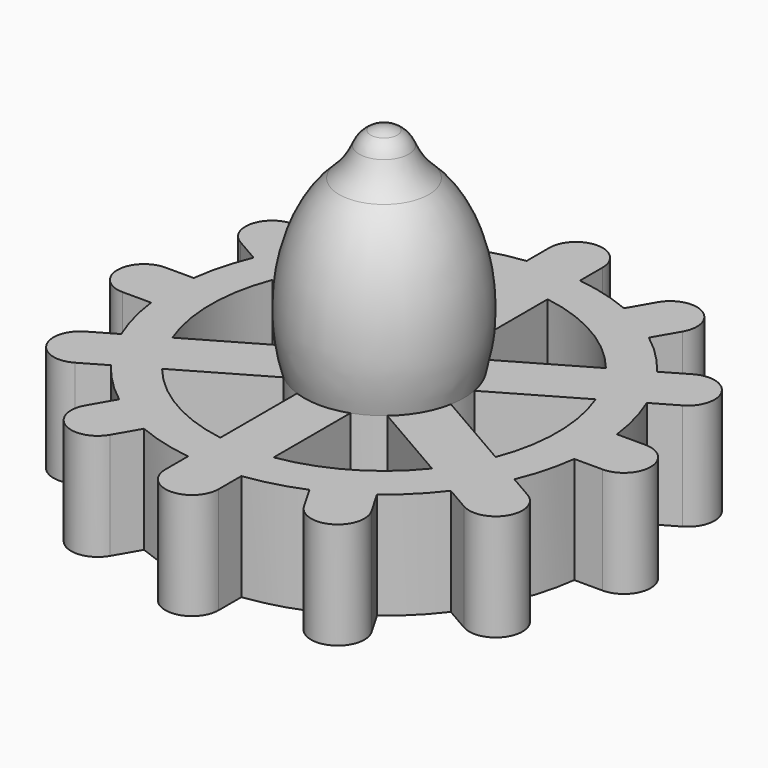
from build123d import *

# Parameters (mm, degrees)
F1_DEPTH = 1.27
F2_DEPTH = 3.81


with BuildPart() as f1:
    # F0 (on Top) → F1 (new body)
    with BuildSketch(Plane.XY):
        with BuildLine():
            Line((-1.27, 11.43), (-1.27, 10.0803124952))
            ThreePointArc((-1.27, 10.0803124952), (-2.6296014982, 9.8138063951), (-3.9403039848, 9.3648066989))
            Line((-3.9403039848, 9.3648066989), (-4.6151477372, 10.5336703653))
            ThreePointArc((-4.6151477372, 10.5336703653), (-6.35, 10.9985226281), (-6.8148522628, 9.2636703653))
            Line((-6.8148522628, 9.2636703653), (-6.1400085104, 8.0948066989))
            ThreePointArc((-6.1400085104, 8.0948066989), (-7.1842048969, 7.1842048969), (-8.0948066989, 6.1400085104))
            Line((-8.0948066989, 6.1400085104), (-9.2636703653, 6.8148522628))
            ThreePointArc((-9.2636703653, 6.8148522628), (-10.9985226281, 6.35), (-10.5336703653, 4.6151477372))
            Line((-10.5336703653, 4.6151477372), (-9.3648066989, 3.9403039848))
            ThreePointArc((-9.3648066989, 3.9403039848), (-9.8138063951, 2.6296014982), (-10.0803124952, 1.27))
            Line((-10.0803124952, 1.27), (-11.43, 1.27))
            ThreePointArc((-11.43, 1.27), (-12.7, 0), (-11.43, -1.27))
            Line((-11.43, -1.27), (-10.0803124952, -1.27))
            ThreePointArc((-10.0803124952, -1.27), (-9.8138063951, -2.6296014982), (-9.3648066989, -3.9403039848))
            Line((-9.3648066989, -3.9403039848), (-10.5336703653, -4.6151477372))
            ThreePointArc((-10.5336703653, -4.6151477372), (-10.9985226281, -6.35), (-9.2636703653, -6.8148522628))
            Line((-9.2636703653, -6.8148522628), (-8.0948066989, -6.1400085104))
            ThreePointArc((-8.0948066989, -6.1400085104), (-7.1842048969, -7.1842048969), (-6.1400085104, -8.0948066989))
            Line((-6.1400085104, -8.0948066989), (-6.8148522628, -9.2636703653))
            ThreePointArc((-6.8148522628, -9.2636703653), (-6.35, -10.9985226281), (-4.6151477372, -10.5336703653))
            Line((-4.6151477372, -10.5336703653), (-3.9403039848, -9.3648066989))
            ThreePointArc((-3.9403039848, -9.3648066989), (-2.6296014982, -9.8138063951), (-1.27, -10.0803124952))
            Line((-1.27, -10.0803124952), (-1.27, -11.43))
            ThreePointArc((-1.27, -11.43), (0, -12.7), (1.27, -11.43))
            Line((1.27, -11.43), (1.27, -10.0803124952))
            ThreePointArc((1.27, -10.0803124952), (2.6296014982, -9.8138063951), (3.9403039848, -9.3648066989))
            Line((3.9403039848, -9.3648066989), (4.6151477372, -10.5336703653))
            ThreePointArc((4.6151477372, -10.5336703653), (6.35, -10.9985226281), (6.8148522628, -9.2636703653))
            Line((6.8148522628, -9.2636703653), (6.1400085104, -8.0948066989))
            ThreePointArc((6.1400085104, -8.0948066989), (7.1842048969, -7.1842048969), (8.0948066989, -6.1400085104))
            Line((8.0948066989, -6.1400085104), (9.2636703653, -6.8148522628))
            ThreePointArc((9.2636703653, -6.8148522628), (10.9985226281, -6.35), (10.5336703653, -4.6151477372))
            Line((10.5336703653, -4.6151477372), (9.3648066989, -3.9403039848))
            ThreePointArc((9.3648066989, -3.9403039848), (9.8138063951, -2.6296014982), (10.0803124952, -1.27))
            Line((10.0803124952, -1.27), (11.43, -1.27))
            ThreePointArc((11.43, -1.27), (12.7, 0), (11.43, 1.27))
            Line((11.43, 1.27), (10.0803124952, 1.27))
            ThreePointArc((10.0803124952, 1.27), (9.8138063951, 2.6296014982), (9.3648066989, 3.9403039848))
            Line((9.3648066989, 3.9403039848), (10.5336703653, 4.6151477372))
            ThreePointArc((10.5336703653, 4.6151477372), (10.9985226281, 6.35), (9.2636703653, 6.8148522628))
            Line((9.2636703653, 6.8148522628), (8.0948066989, 6.1400085104))
            ThreePointArc((8.0948066989, 6.1400085104), (7.1842048969, 7.1842048969), (6.1400085104, 8.0948066989))
            Line((6.1400085104, 8.0948066989), (6.8148522628, 9.2636703653))
            ThreePointArc((6.8148522628, 9.2636703653), (6.35, 10.9985226281), (4.6151477372, 10.5336703653))
            Line((4.6151477372, 10.5336703653), (3.9403039848, 9.3648066989))
            ThreePointArc((3.9403039848, 9.3648066989), (2.6296014982, 9.8138063951), (1.27, 10.0803124952))
            Line((1.27, 10.0803124952), (1.27, 11.43))
            ThreePointArc((1.27, 11.43), (0, 12.7), (-1.27, 11.43))
        make_face()
        with BuildLine():
            ThreePointArc((-1.27, -8.1567226875), (-4.1275, -7.1490397082), (-6.428929059, -5.1782136065))
            Line((-6.428929059, -5.1782136065), (-2.4758519733, -2.895903487))
            ThreePointArc((-2.4758519733, -2.895903487), (-1.905, -3.2995567884), (-1.27, -3.5921024484))
            Line((-1.27, -3.5921024484), (-1.27, -8.1567226875))
        make_face(mode=Mode.SUBTRACT)
        with BuildLine():
            ThreePointArc((6.428929059, -5.1782136065), (4.1275, -7.1490397082), (1.27, -8.1567226875))
            Line((1.27, -8.1567226875), (1.27, -3.5921024484))
            ThreePointArc((1.27, -3.5921024484), (1.905, -3.2995567884), (2.4758519733, -2.895903487))
            Line((2.4758519733, -2.895903487), (6.428929059, -5.1782136065))
        make_face(mode=Mode.SUBTRACT)
        with BuildLine():
            ThreePointArc((7.698929059, 2.9785090809), (8.255, 0), (7.698929059, -2.9785090809))
            Line((7.698929059, -2.9785090809), (3.7458519733, -0.6961989614))
            ThreePointArc((3.7458519733, -0.6961989614), (3.81, 0), (3.7458519733, 0.6961989614))
            Line((3.7458519733, 0.6961989614), (7.698929059, 2.9785090809))
        make_face(mode=Mode.SUBTRACT)
        with BuildLine():
            Line((-7.698929059, 2.9785090809), (-3.7458519733, 0.6961989614))
            ThreePointArc((-3.7458519733, 0.6961989614), (-3.81, 0), (-3.7458519733, -0.6961989614))
            Line((-3.7458519733, -0.6961989614), (-7.698929059, -2.9785090809))
            ThreePointArc((-7.698929059, -2.9785090809), (-8.255, 0), (-7.698929059, 2.9785090809))
        make_face(mode=Mode.SUBTRACT)
        with BuildLine():
            ThreePointArc((-6.428929059, 5.1782136065), (-4.1275, 7.1490397082), (-1.27, 8.1567226875))
            Line((-1.27, 8.1567226875), (-1.27, 3.5921024484))
            ThreePointArc((-1.27, 3.5921024484), (-1.905, 3.2995567884), (-2.4758519733, 2.895903487))
            Line((-2.4758519733, 2.895903487), (-6.428929059, 5.1782136065))
        make_face(mode=Mode.SUBTRACT)
        with BuildLine():
            Line((1.27, 3.5921024484), (1.27, 8.1567226875))
            ThreePointArc((1.27, 8.1567226875), (4.1275, 7.1490397082), (6.428929059, 5.1782136065))
            Line((6.428929059, 5.1782136065), (2.4758519733, 2.895903487))
            ThreePointArc((2.4758519733, 2.895903487), (1.905, 3.2995567884), (1.27, 3.5921024484))
        make_face(mode=Mode.SUBTRACT)
    extrude(amount=-F1_DEPTH)

    # F0 (on Top) → F2 (join)
    with BuildSketch(Plane.XY):
        with BuildLine():
            Line((-1.27, 11.43), (-1.27, 10.0803124952))
            ThreePointArc((-1.27, 10.0803124952), (-2.6296014982, 9.8138063951), (-3.9403039848, 9.3648066989))
            Line((-3.9403039848, 9.3648066989), (-4.6151477372, 10.5336703653))
            ThreePointArc((-4.6151477372, 10.5336703653), (-6.35, 10.9985226281), (-6.8148522628, 9.2636703653))
            Line((-6.8148522628, 9.2636703653), (-6.1400085104, 8.0948066989))
            ThreePointArc((-6.1400085104, 8.0948066989), (-7.1842048969, 7.1842048969), (-8.0948066989, 6.1400085104))
            Line((-8.0948066989, 6.1400085104), (-9.2636703653, 6.8148522628))
            ThreePointArc((-9.2636703653, 6.8148522628), (-10.9985226281, 6.35), (-10.5336703653, 4.6151477372))
            Line((-10.5336703653, 4.6151477372), (-9.3648066989, 3.9403039848))
            ThreePointArc((-9.3648066989, 3.9403039848), (-9.8138063951, 2.6296014982), (-10.0803124952, 1.27))
            Line((-10.0803124952, 1.27), (-11.43, 1.27))
            ThreePointArc((-11.43, 1.27), (-12.7, 0), (-11.43, -1.27))
            Line((-11.43, -1.27), (-10.0803124952, -1.27))
            ThreePointArc((-10.0803124952, -1.27), (-9.8138063951, -2.6296014982), (-9.3648066989, -3.9403039848))
            Line((-9.3648066989, -3.9403039848), (-10.5336703653, -4.6151477372))
            ThreePointArc((-10.5336703653, -4.6151477372), (-10.9985226281, -6.35), (-9.2636703653, -6.8148522628))
            Line((-9.2636703653, -6.8148522628), (-8.0948066989, -6.1400085104))
            ThreePointArc((-8.0948066989, -6.1400085104), (-7.1842048969, -7.1842048969), (-6.1400085104, -8.0948066989))
            Line((-6.1400085104, -8.0948066989), (-6.8148522628, -9.2636703653))
            ThreePointArc((-6.8148522628, -9.2636703653), (-6.35, -10.9985226281), (-4.6151477372, -10.5336703653))
            Line((-4.6151477372, -10.5336703653), (-3.9403039848, -9.3648066989))
            ThreePointArc((-3.9403039848, -9.3648066989), (-2.6296014982, -9.8138063951), (-1.27, -10.0803124952))
            Line((-1.27, -10.0803124952), (-1.27, -11.43))
            ThreePointArc((-1.27, -11.43), (0, -12.7), (1.27, -11.43))
            Line((1.27, -11.43), (1.27, -10.0803124952))
            ThreePointArc((1.27, -10.0803124952), (2.6296014982, -9.8138063951), (3.9403039848, -9.3648066989))
            Line((3.9403039848, -9.3648066989), (4.6151477372, -10.5336703653))
            ThreePointArc((4.6151477372, -10.5336703653), (6.35, -10.9985226281), (6.8148522628, -9.2636703653))
            Line((6.8148522628, -9.2636703653), (6.1400085104, -8.0948066989))
            ThreePointArc((6.1400085104, -8.0948066989), (7.1842048969, -7.1842048969), (8.0948066989, -6.1400085104))
            Line((8.0948066989, -6.1400085104), (9.2636703653, -6.8148522628))
            ThreePointArc((9.2636703653, -6.8148522628), (10.9985226281, -6.35), (10.5336703653, -4.6151477372))
            Line((10.5336703653, -4.6151477372), (9.3648066989, -3.9403039848))
            ThreePointArc((9.3648066989, -3.9403039848), (9.8138063951, -2.6296014982), (10.0803124952, -1.27))
            Line((10.0803124952, -1.27), (11.43, -1.27))
            ThreePointArc((11.43, -1.27), (12.7, 0), (11.43, 1.27))
            Line((11.43, 1.27), (10.0803124952, 1.27))
            ThreePointArc((10.0803124952, 1.27), (9.8138063951, 2.6296014982), (9.3648066989, 3.9403039848))
            Line((9.3648066989, 3.9403039848), (10.5336703653, 4.6151477372))
            ThreePointArc((10.5336703653, 4.6151477372), (10.9985226281, 6.35), (9.2636703653, 6.8148522628))
            Line((9.2636703653, 6.8148522628), (8.0948066989, 6.1400085104))
            ThreePointArc((8.0948066989, 6.1400085104), (7.1842048969, 7.1842048969), (6.1400085104, 8.0948066989))
            Line((6.1400085104, 8.0948066989), (6.8148522628, 9.2636703653))
            ThreePointArc((6.8148522628, 9.2636703653), (6.35, 10.9985226281), (4.6151477372, 10.5336703653))
            Line((4.6151477372, 10.5336703653), (3.9403039848, 9.3648066989))
            ThreePointArc((3.9403039848, 9.3648066989), (2.6296014982, 9.8138063951), (1.27, 10.0803124952))
            Line((1.27, 10.0803124952), (1.27, 11.43))
            ThreePointArc((1.27, 11.43), (0, 12.7), (-1.27, 11.43))
        make_face()
        with BuildLine():
            ThreePointArc((-1.27, -8.1567226875), (-4.1275, -7.1490397082), (-6.428929059, -5.1782136065))
            Line((-6.428929059, -5.1782136065), (-2.4758519733, -2.895903487))
            ThreePointArc((-2.4758519733, -2.895903487), (-1.905, -3.2995567884), (-1.27, -3.5921024484))
            Line((-1.27, -3.5921024484), (-1.27, -8.1567226875))
        make_face(mode=Mode.SUBTRACT)
        with BuildLine():
            ThreePointArc((6.428929059, -5.1782136065), (4.1275, -7.1490397082), (1.27, -8.1567226875))
            Line((1.27, -8.1567226875), (1.27, -3.5921024484))
            ThreePointArc((1.27, -3.5921024484), (1.905, -3.2995567884), (2.4758519733, -2.895903487))
            Line((2.4758519733, -2.895903487), (6.428929059, -5.1782136065))
        make_face(mode=Mode.SUBTRACT)
        with BuildLine():
            ThreePointArc((7.698929059, 2.9785090809), (8.255, 0), (7.698929059, -2.9785090809))
            Line((7.698929059, -2.9785090809), (3.7458519733, -0.6961989614))
            ThreePointArc((3.7458519733, -0.6961989614), (3.81, 0), (3.7458519733, 0.6961989614))
            Line((3.7458519733, 0.6961989614), (7.698929059, 2.9785090809))
        make_face(mode=Mode.SUBTRACT)
        with BuildLine():
            Line((-7.698929059, 2.9785090809), (-3.7458519733, 0.6961989614))
            ThreePointArc((-3.7458519733, 0.6961989614), (-3.81, 0), (-3.7458519733, -0.6961989614))
            Line((-3.7458519733, -0.6961989614), (-7.698929059, -2.9785090809))
            ThreePointArc((-7.698929059, -2.9785090809), (-8.255, 0), (-7.698929059, 2.9785090809))
        make_face(mode=Mode.SUBTRACT)
        with BuildLine():
            ThreePointArc((-6.428929059, 5.1782136065), (-4.1275, 7.1490397082), (-1.27, 8.1567226875))
            Line((-1.27, 8.1567226875), (-1.27, 3.5921024484))
            ThreePointArc((-1.27, 3.5921024484), (-1.905, 3.2995567884), (-2.4758519733, 2.895903487))
            Line((-2.4758519733, 2.895903487), (-6.428929059, 5.1782136065))
        make_face(mode=Mode.SUBTRACT)
        with BuildLine():
            Line((1.27, 3.5921024484), (1.27, 8.1567226875))
            ThreePointArc((1.27, 8.1567226875), (4.1275, 7.1490397082), (6.428929059, 5.1782136065))
            Line((6.428929059, 5.1782136065), (2.4758519733, 2.895903487))
            ThreePointArc((2.4758519733, 2.895903487), (1.905, 3.2995567884), (1.27, 3.5921024484))
        make_face(mode=Mode.SUBTRACT)
    extrude(amount=F2_DEPTH)

    # F3 (on Right) → F4 (revolve)
    with BuildSketch(Plane.YZ):
        with BuildLine():
            ThreePointArc((-1.1769498973, 13.1771676217), (-1.5794830695, 12.4338749212), (-2.1359994269, 11.7976308349))
            add(Edge.make_bspline(
                [(-2.1359994269, 11.7976308349), (-5.2723457025, 8.9282099587), (-3.81, 3.81)],
                knots=[3.6812308924, 3.6812308924, 3.6812308924, 5.1239058265, 5.1239058265, 5.1239058265], degree=2, weights=[1, 0.7509231517, 1]))
            Line((-3.81, 3.81), (0, 3.81))
            Line((0, 3.81), (0, 12.7))
            Line((0, 12.7), (0, 13.97))
            ThreePointArc((0, 13.97), (-0.3287001873, 13.9267257994), (-0.635, 13.7998522628))
            ThreePointArc((-0.635, 13.7998522628), (-0.9579794612, 13.5337717624), (-1.1769498973, 13.1771676217))
        make_face()
    revolve(axis=Axis((0, 0, 8.255), (0, 0, -1)))


solid = f1.part
